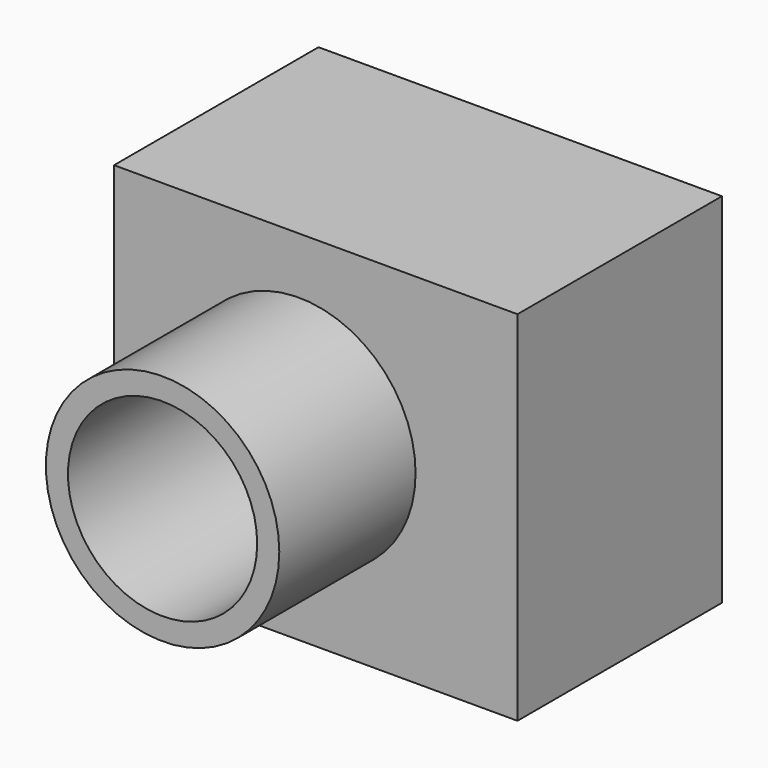
from build123d import *

# Parameters (mm, degrees)
F0_W     = 120.300807
F0_H     = 106.740889
F0_R     = 34.803536
F1_DEPTH = 76.2
F0_R_2   = 28.211042
F2_DEPTH = 127


with BuildPart() as f1:
    # F0 (on Front) → F1 (new body)
    with BuildSketch(Plane.XZ):
        with Locations((5.041506, -1.73845)):
            Rectangle(F0_W, F0_H)
        Circle(F0_R, mode=Mode.SUBTRACT)
    extrude(amount=F1_DEPTH)


with BuildPart() as f2:
    # F0 (on Front) → F2 (new body)
    with BuildSketch(Plane.XZ):
        Circle(F0_R)
        Circle(F0_R_2, mode=Mode.SUBTRACT)
    extrude(amount=F2_DEPTH)


solid = Compound([f1.part, f2.part])
